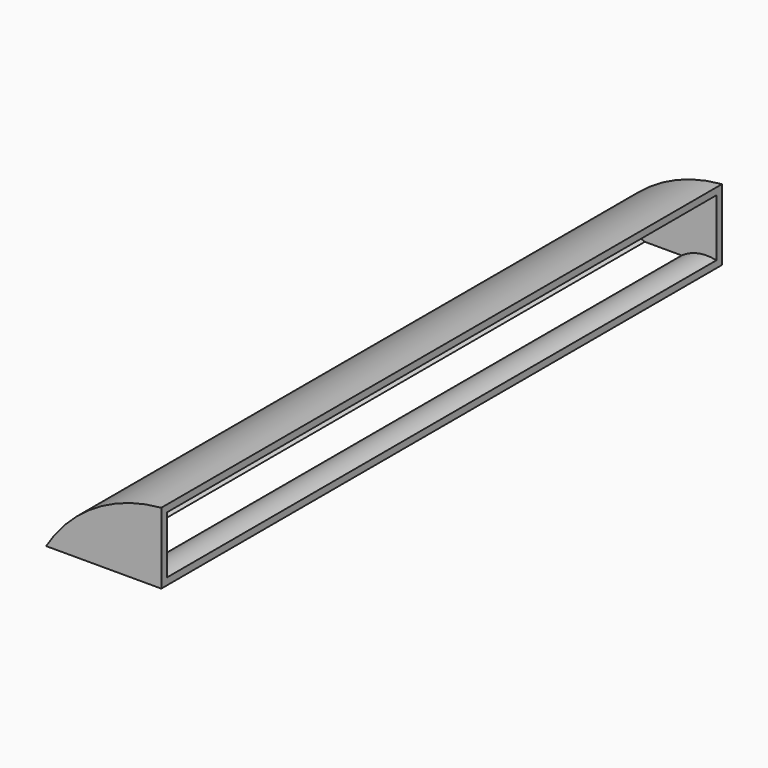
from build123d import *

# Parameters (mm, degrees)
F1_DEPTH = 33.24098
F2_W     = 32.58058
F2_H     = 2.716841


with BuildPart() as f1:
    # F0 (on Front) → F1 (new body)
    with BuildSketch(Plane.XZ):
        with BuildLine():
            ThreePointArc((5.46354, 1.68862), (3.856251, 1.234842), (2.73177, 0))
            Line((2.73177, 0), (5.46354, 0))
            Line((5.46354, 0), (5.46354, 1.68862))
        make_face()
        with BuildLine():
            ThreePointArc((5.46354, 3.377241), (2.324843, 2.346928), (0, 0))
            Line((0, 0), (2.73177, 0))
            ThreePointArc((2.73177, 0), (3.856251, 1.234842), (5.46354, 1.68862))
            Line((5.46354, 1.68862), (5.46354, 3.377241))
        make_face()
    extrude(amount=-F1_DEPTH)

    # F4: sweep along a path in F3
    with BuildLine(Plane.XZ) as f4_path:
        ThreePointArc((5.46354, 1.68862), (3.506738, 1.368407), (2.071792, 0))
    # F2 (on face) → F4 (sweep, cut)
    with BuildSketch(Plane.YZ.offset(5.46354)):
        with Locations((16.62049, 1.68862)):
            Rectangle(F2_W, F2_H)
    sweep(path=f4_path.line, mode=Mode.SUBTRACT)


solid = f1.part
